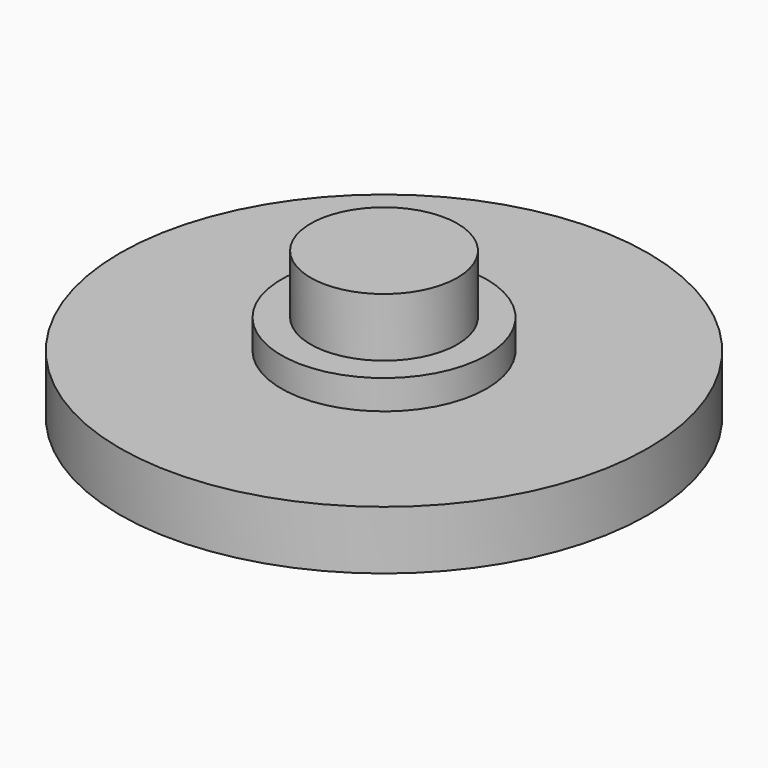
from build123d import *

# Parameters (mm, degrees)
F1_R     = 9
F1_R_2   = 3.5
F2_DEPTH = 2
F0_R     = 3.5
F0_R_2   = 2.5
F4_DEPTH = 3
F5_R     = 2.5
F3_R     = 2.5
F6_DEPTH = 5


with BuildPart() as f2:
    # F1 (on face) → F2 (new body)
    with BuildSketch(Plane.XY):
        Circle(F1_R)
        Circle(F1_R_2, mode=Mode.SUBTRACT)
    extrude(amount=F2_DEPTH)

    # F0 (on Top) → F4 (join)
    with BuildSketch(Plane.XY):
        Circle(F0_R)
        Circle(F0_R_2, mode=Mode.SUBTRACT)
    extrude(amount=F4_DEPTH)

    # F5 (on Top) + F3 (on face) → F6 (join)
    with BuildSketch(Plane.XY):
        Circle(F5_R)
    with BuildSketch(Plane.XY):
        Circle(F3_R)
    extrude(amount=F6_DEPTH)


solid = f2.part
